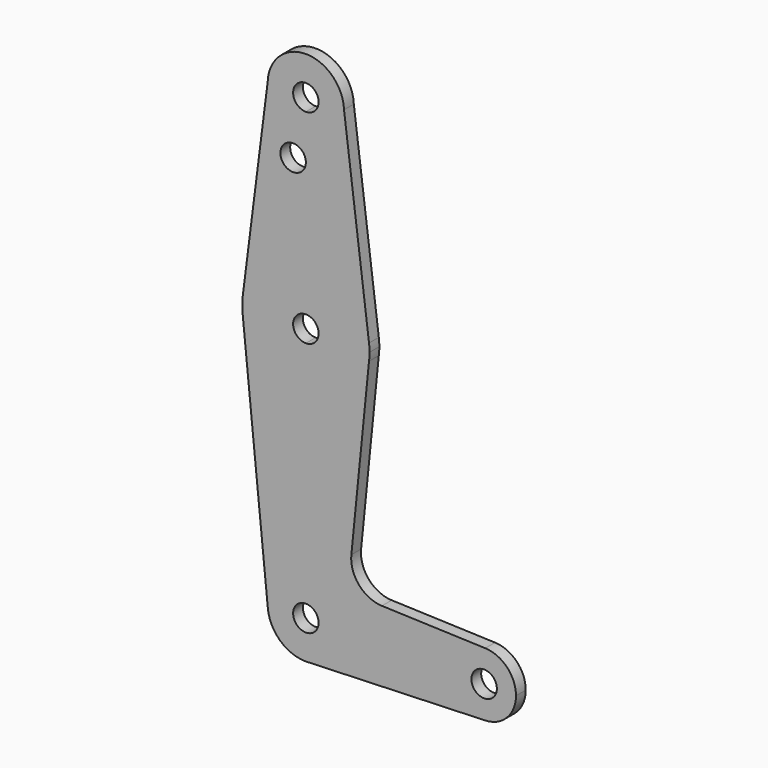
from build123d import *

# Parameters (mm, degrees)
F0_R     = 3.175
F1_DEPTH = 3.048


with BuildPart() as f1:
    # F0 (on Front) → F1 (new body)
    with BuildSketch(Plane.XZ):
        with BuildLine():
            ThreePointArc((-56.3914789077, 61.8253503252), (-53.7251684169, 54.8743449728), (-46.8723890719, 51.9648600887))
            ThreePointArc((-46.8723890719, 51.9648600887), (-40.1371969811, 54.7546679979), (-37.3473890719, 61.4898600887))
            ThreePointArc((-37.3473890719, 61.4898600887), (-37.3491229561, 61.6715947532), (-37.3543239776, 61.8532632535))
            ThreePointArc((-37.3543239776, 61.8532632535), (-46.886354938, 71.0148498501), (-56.3914789077, 61.8253503252))
        make_face()
        with BuildLine():
            ThreePointArc((-43.6973890719, 61.4898600887), (-44.6273250416, 59.2447960585), (-46.8723890719, 58.3148600887))
            ThreePointArc((-46.8723890719, 58.3148600887), (-49.1174531022, 63.734924119), (-43.6973890719, 61.4898600887))
        make_face(mode=Mode.SUBTRACT)
        with BuildLine():
            ThreePointArc((-37.3473890719, 61.4898600887), (-40.1371969811, 54.7546679979), (-46.8723890719, 51.9648600887))
            Line((-46.8723890719, 51.9648600887), (-46.8723890719, 47.2150600887))
            Line((-46.8723890719, 47.2150600887), (-46.8723890719, 26.5648600887))
            ThreePointArc((-46.8723890719, 26.5648600887), (-36.3764074601, 22.5999396437), (-31.123352725, 12.6857256012))
            Line((-31.123352725, 12.6857256012), (-37.3543239776, 61.8532632535))
            ThreePointArc((-37.3543239776, 61.8532632535), (-37.3491229561, 61.6715947532), (-37.3473890719, 61.4898600887))
        make_face()
        with BuildLine():
            Line((-46.8723890719, 47.2150600887), (-46.8723890719, 51.9648600887))
            ThreePointArc((-46.8723890719, 51.9648600887), (-53.7251684169, 54.8743449728), (-56.3914789077, 61.8253503252))
            Line((-56.3914789077, 61.8253503252), (-62.6213249576, 12.6865181635))
            ThreePointArc((-62.6213249576, 12.6865181635), (-57.368070995, 22.6002037432), (-46.8723890719, 26.5648600887))
            Line((-46.8723890719, 26.5648600887), (-46.8723890719, 47.2150600887))
        make_face()
        with Locations((-50.0473890719, 47.2150600887)):
            Circle(F0_R, mode=Mode.SUBTRACT)
        with BuildLine():
            ThreePointArc((-31.123352725, 12.6857256012), (-36.3764074601, 22.5999396437), (-46.8723890719, 26.5648600887))
            Line((-46.8723890719, 26.5648600887), (-46.8723890719, 13.8648600887))
            ThreePointArc((-46.8723890719, 13.8648600887), (-44.6273250416, 12.934924119), (-43.6973890719, 10.6898600887))
            ThreePointArc((-43.6973890719, 10.6898600887), (-44.6273250416, 8.4447960585), (-46.8723890719, 7.5148600887))
            Line((-46.8723890719, 7.5148600887), (-46.8723890719, -5.1851399113))
            ThreePointArc((-46.8723890719, -5.1851399113), (-36.3764074601, -1.2202194662), (-31.123352725, 8.6939945763))
            ThreePointArc((-31.123352725, 8.6939945763), (-31.0289112812, 9.6899418439), (-30.9973890719, 10.6898600887))
            ThreePointArc((-30.9973890719, 10.6898600887), (-31.0289112812, 11.6897783336), (-31.123352725, 12.6857256012))
        make_face()
        with BuildLine():
            Line((-46.8723890719, 13.8648600887), (-46.8723890719, 26.5648600887))
            ThreePointArc((-46.8723890719, 26.5648600887), (-57.368070995, 22.6002037432), (-62.6213249576, 12.6865181635))
            ThreePointArc((-62.6213249576, 12.6865181635), (-62.7473890719, 10.6898600887), (-62.6213249576, 8.693202014))
            ThreePointArc((-62.6213249576, 8.693202014), (-57.368070995, -1.2204835658), (-46.8723890719, -5.1851399113))
            Line((-46.8723890719, -5.1851399113), (-46.8723890719, 7.5148600887))
            ThreePointArc((-46.8723890719, 7.5148600887), (-50.0473890719, 10.6898600887), (-46.8723890719, 13.8648600887))
        make_face()
        with BuildLine():
            ThreePointArc((-46.8723890719, -5.1851399113), (-57.368070995, -1.2204835658), (-62.6213249576, 8.693202014))
            Line((-62.6213249576, 8.693202014), (-56.3497254209, -53.7618335216))
            ThreePointArc((-56.3497254209, -53.7618335216), (-53.9360462917, -46.420275149), (-46.8723890719, -43.2851399113))
            Line((-46.8723890719, -43.2851399113), (-46.8723890719, -5.1851399113))
        make_face()
        with BuildLine():
            ThreePointArc((-31.123352725, 8.6939945763), (-36.3764074601, -1.2202194662), (-46.8723890719, -5.1851399113))
            Line((-46.8723890719, -5.1851399113), (-46.8723890719, -43.2851399113))
            ThreePointArc((-46.8723890719, -43.2851399113), (-40.1371969811, -46.0749478205), (-37.3473890719, -52.8101399113))
            Line((-37.3473890719, -52.8101399113), (-10.3598890719, -52.8101399113))
            ThreePointArc((-10.3598890719, -52.8101399113), (-7.9344862416, -47.0986872903), (-2.1405023528, -44.8776468525))
            Line((-2.1405023522, -44.8776468355), (-27.9056429184, -43.9603780198))
            ThreePointArc((-27.9056429184, -43.9603780198), (-33.6125452725, -41.242874542), (-35.5332022719, -35.220861895))
            Line((-35.5332022719, -35.220861895), (-31.123352725, 8.6939945763))
        make_face()
        with BuildLine():
            ThreePointArc((-46.8723890719, -43.2851399113), (-53.9360462917, -46.420275149), (-56.3497254209, -53.7618335216))
            ThreePointArc((-56.3497254209, -53.7618335216), (-53.2897367204, -59.8488382396), (-46.9466380887, -62.3348505149))
            Line((-46.9466380887, -62.3348505149), (-46.1222465056, -62.3055551802))
            ThreePointArc((-46.1222465056, -62.3055551802), (-39.8770072759, -59.2746784507), (-37.3473890719, -52.8101399113))
            Line((-37.3473890719, -52.8101399113), (-43.6973890719, -52.8101399113))
            ThreePointArc((-43.6973890719, -52.8101399113), (-49.1174531022, -55.0552039415), (-46.8723890719, -49.6351399113))
            Line((-46.8723890719, -49.6351399113), (-46.8723890719, -43.2851399113))
        make_face()
        with BuildLine():
            Line((-46.1222465056, -62.3055551802), (-46.9466380887, -62.3348505149))
            ThreePointArc((-46.9466380887, -62.3348505149), (-46.5341250083, -62.3291315818), (-46.1222465056, -62.3055551802))
        make_face()
        with BuildLine():
            Line((-10.3598890719, -52.8101399113), (-37.3473890719, -52.8101399113))
            ThreePointArc((-37.3473890719, -52.8101399113), (-39.8770072759, -59.2746784507), (-46.1222465056, -62.3055551802))
            Line((-46.1222465056, -62.3055551802), (-2.1405023522, -60.74263297))
            ThreePointArc((-2.1405023522, -60.74263297), (-7.9344862414, -58.5215925324), (-10.3598890719, -52.8101399113))
        make_face()
        with BuildLine():
            ThreePointArc((-2.1405023528, -44.8776468525), (-7.9344862416, -47.0986872903), (-10.3598890719, -52.8101399113))
            ThreePointArc((-10.3598890719, -52.8101399113), (-7.9344862414, -58.5215925324), (-2.1405023522, -60.74263297))
            ThreePointArc((-2.1405023522, -60.74263297), (3.2890635493, -58.3222370808), (5.5151109281, -52.8101399113))
            ThreePointArc((5.5151109281, -52.8101399113), (3.289063549, -47.2980427415), (-2.1405023528, -44.8776468525))
        make_face()
        with BuildLine():
            ThreePointArc((0.7526109281, -52.8101399113), (-2.4223890719, -55.9851399113), (-5.5973890719, -52.8101399113))
            ThreePointArc((-5.5973890719, -52.8101399113), (-2.4223890719, -49.6351399113), (0.7526109281, -52.8101399113))
        make_face(mode=Mode.SUBTRACT)
        with BuildLine():
            ThreePointArc((-37.3473890719, -52.8101399113), (-40.1371969811, -46.0749478205), (-46.8723890719, -43.2851399113))
            Line((-46.8723890719, -43.2851399113), (-46.8723890719, -49.6351399113))
            ThreePointArc((-46.8723890719, -49.6351399113), (-44.6273250416, -50.565075881), (-43.6973890719, -52.8101399113))
            Line((-43.6973890719, -52.8101399113), (-37.3473890719, -52.8101399113))
        make_face()
    extrude(amount=F1_DEPTH)


solid = f1.part
